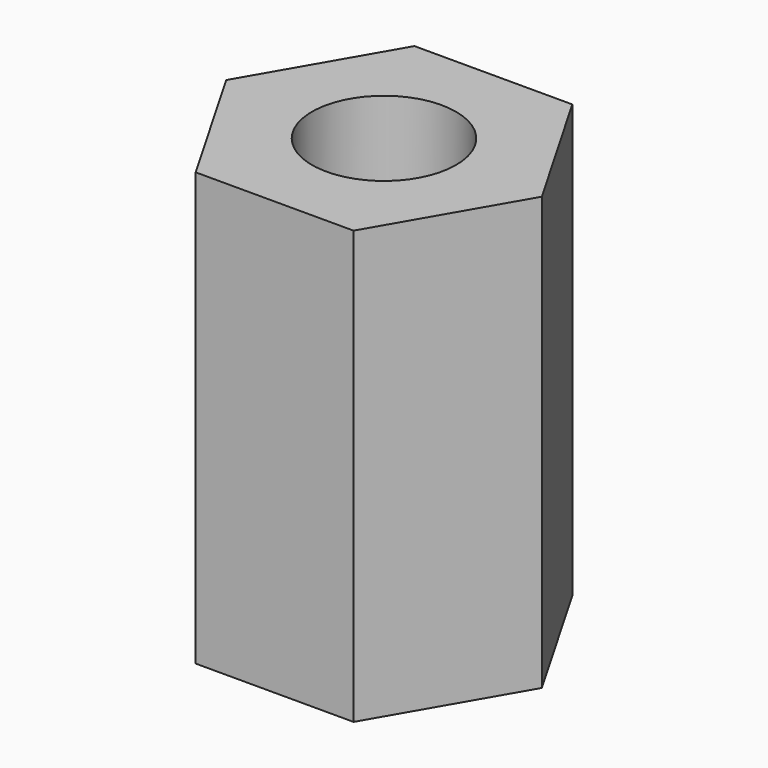
from build123d import *

# Parameters (mm, degrees)
CYLINDER017_R     = 1.9
CYLINDER017_DEPTH = 8
CYLINDER022_R     = 2.5
CYLINDER022_DEPTH = 5
PRISM_DEPTH       = 15


with BuildPart() as zylinder017:
    # Cylinder017 → Cylinder017 (new body)
    with BuildSketch(Plane.XY):
        Circle(CYLINDER017_R)
    extrude(amount=CYLINDER017_DEPTH)


with BuildPart() as zylinder020:
    # Cylinder022 → Cylinder022 (new body)
    with BuildSketch(Plane.XY.offset(10)):
        Circle(CYLINDER022_R)
    extrude(amount=CYLINDER022_DEPTH)


with BuildPart() as shaft_fixer:
    # Prism → Prism (new body)
    with BuildSketch(Plane.XY):
        Polygon((5.47476, 0), (2.73738, 4.741281), (-2.73738, 4.741281), (-5.47476, 0), (-2.73738, -4.741281), (2.73738, -4.741281), align=None)
    extrude(amount=PRISM_DEPTH)

    # Cut039: cut Zylinder020
    add(zylinder020.part, mode=Mode.SUBTRACT)

    # Cut040: cut Zylinder017
    add(zylinder017.part, mode=Mode.SUBTRACT)


with BuildPart() as shaft_fixer_1:
    # Cut040 placement: moved
    add(shaft_fixer.part.moved(Location((0, 0, 18))))


solid = shaft_fixer_1.part
